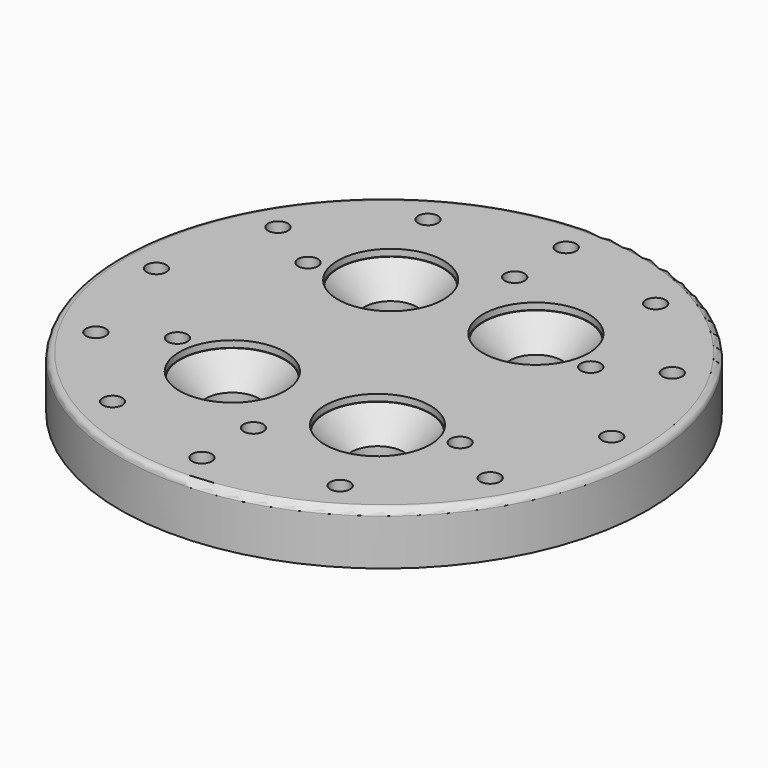
from build123d import *

# Parameters (mm, degrees)
SKETCH_R              = 40
PAD_DEPTH             = 8
SKETCH001_R           = 1.5
POCKET_DEPTH          = 234.84015
POLARPATTERN_COUNT    = 12
SKETCH002_R           = 4
POCKET001_DEPTH       = 8.001
SKETCH003_R           = 8
POCKET002_DEPTH       = 1
SKETCH004_R           = 1.5
POCKET003_DEPTH       = 234.84015
POLARPATTERN001_COUNT = 6
FILLET_R              = 1
CHAMFER_SIZE          = 3.9
CHAMFER001_SIZE       = 3.9
CHAMFER002_SIZE       = 3.9
CHAMFER003_SIZE       = 3.9


with BuildPart() as part:
    # Sketch → Pad (new body)
    with BuildSketch(Plane.XY):
        Circle(SKETCH_R)
    extrude(amount=PAD_DEPTH)

    # Sketch001 → Pocket (cut, through all)
    with BuildSketch(Plane.XY.offset(8)):
        with Locations((34.5, 0)):
            Circle(SKETCH001_R)
    pocket = extrude(amount=-POCKET_DEPTH, mode=Mode.SUBTRACT)

    # PolarPattern: Pocket ×12 about axis
    polarpattern_axis = Axis((0, 0, 8), (0, 0, 1))
    for i in range(1, POLARPATTERN_COUNT):
        add(pocket.rotate(polarpattern_axis, i * 360 / POLARPATTERN_COUNT), mode=Mode.SUBTRACT)

    # Sketch002 → Pocket001 (cut, through all)
    with BuildSketch(Plane.XY.offset(8)):
        with Locations((11, 15)):
            Circle(SKETCH002_R)
        with Locations((11, -15)):
            Circle(SKETCH002_R)
        with Locations((-11, -15)):
            Circle(SKETCH002_R)
        with Locations((-11, 15)):
            Circle(SKETCH002_R)
    extrude(amount=-POCKET001_DEPTH, mode=Mode.SUBTRACT)

    # Sketch003 → Pocket002 (cut)
    with BuildSketch(Plane.XY.offset(8)):
        with Locations((11, 15)):
            Circle(SKETCH003_R)
        with Locations((-11, 15)):
            Circle(SKETCH003_R)
        with Locations((-11, -15)):
            Circle(SKETCH003_R)
        with Locations((11, -15)):
            Circle(SKETCH003_R)
    extrude(amount=-POCKET002_DEPTH, mode=Mode.SUBTRACT)

    # Sketch004 → Pocket003 (cut, through all)
    with BuildSketch(Plane.XY.offset(8)):
        with Locations((0, 24.738697)):
            Circle(SKETCH004_R)
    pocket003 = extrude(amount=-POCKET003_DEPTH, mode=Mode.SUBTRACT)

    # PolarPattern001: Pocket003 ×6 about axis
    polarpattern001_axis = Axis((0, 0, 8), (0, 0, 1))
    for i in range(1, POLARPATTERN001_COUNT):
        add(pocket003.rotate(polarpattern001_axis, i * 360 / POLARPATTERN001_COUNT), mode=Mode.SUBTRACT)

    # Fillet
    fillet_edges = [part.edges().sort_by_distance(p)[0] for p in [
        (-40, 0, 8),
    ]]
    fillet(fillet_edges, radius=FILLET_R)

    # Chamfer
    chamfer_edges = [part.edges().sort_by_distance(p)[0] for p in [
        (-15, 15, 7),
    ]]
    chamfer(chamfer_edges, length=CHAMFER_SIZE)

    # Chamfer001
    chamfer001_edges = [part.edges().sort_by_distance(p)[0] for p in [
        (7, 15, 7),
    ]]
    chamfer(chamfer001_edges, length=CHAMFER001_SIZE)

    # Chamfer002
    chamfer002_edges = [part.edges().sort_by_distance(p)[0] for p in [
        (-15, -15, 7),
    ]]
    chamfer(chamfer002_edges, length=CHAMFER002_SIZE)

    # Chamfer003
    chamfer003_edges = [part.edges().sort_by_distance(p)[0] for p in [
        (7, -15, 7),
    ]]
    chamfer(chamfer003_edges, length=CHAMFER003_SIZE)


solid = part.part
